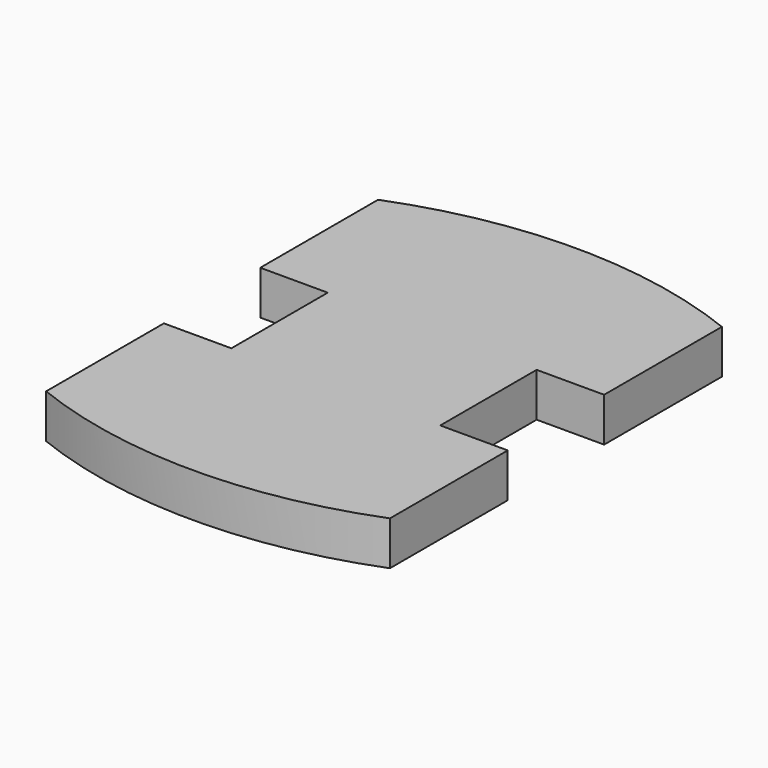
from build123d import *

# Parameters (mm, degrees)
F1_DEPTH = 19.05


with BuildPart() as f1:
    # F0 (on Top) → F1 (new body)
    with BuildSketch(Plane.XY):
        with BuildLine():
            Line((74.589707, 26.132662), (74.589707, 90.005893))
            ThreePointArc((74.589707, 90.005893), (0, 104.142881), (-74.589707, 90.005893))
            Line((-74.589707, 90.005893), (-74.589707, 26.132662))
            Line((-74.589707, 26.132662), (-45.310471, 26.132662))
            Line((-45.310471, 26.132662), (-45.310471, -26.132662))
            Line((-45.310471, -26.132662), (-74.589707, -26.132662))
            Line((-74.589707, -26.132662), (-74.589707, -90.005893))
            ThreePointArc((-74.589707, -90.005893), (0, -104.142881), (74.589707, -90.005893))
            Line((74.589707, -90.005893), (74.589707, -26.132662))
            Line((74.589707, -26.132662), (45.310471, -26.132662))
            Line((45.310471, -26.132662), (45.310471, 26.132662))
            Line((45.310471, 26.132662), (74.589707, 26.132662))
        make_face()
    extrude(amount=F1_DEPTH)


solid = f1.part
